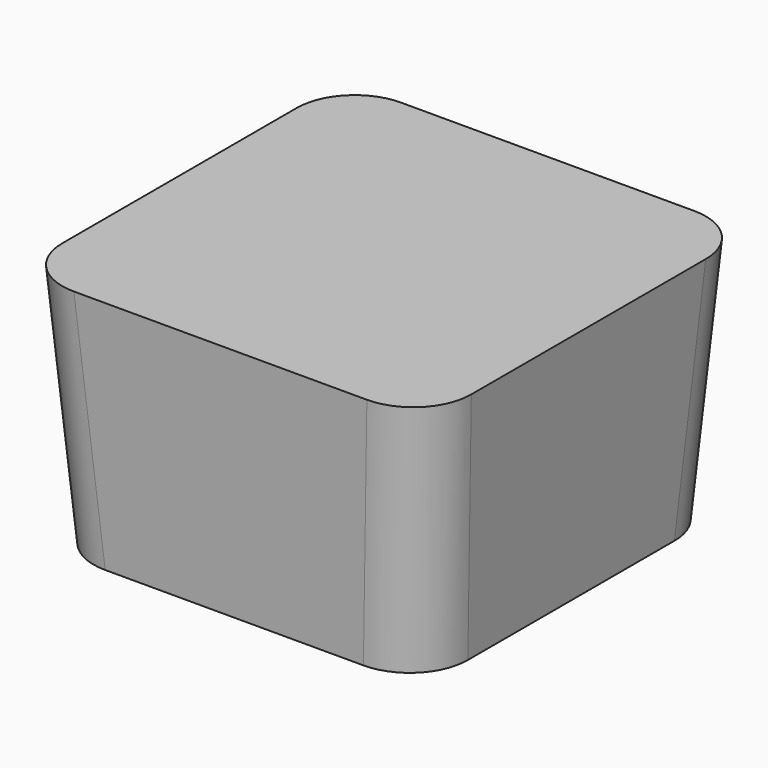
from build123d import *


with BuildPart() as f3:
    # F0 (on Top) → F3 section 0
    with BuildSketch(Plane.XY):
        with BuildLine():
            Line((-44.5, -64.5), (44.5, -64.5))
            ThreePointArc((44.5, -64.5), (58.6421356237, -58.6421356237), (64.5, -44.5))
            Line((64.5, -44.5), (64.5, 44.5))
            ThreePointArc((64.5, 44.5), (58.6421356237, 58.6421356237), (44.5, 64.5))
            Line((44.5, 64.5), (-44.5, 64.5))
            ThreePointArc((-44.5, 64.5), (-58.6421356237, 58.6421356237), (-64.5, 44.5))
            Line((-64.5, 44.5), (-64.5, -44.5))
            ThreePointArc((-64.5, -44.5), (-58.6421356237, -58.6421356237), (-44.5, -64.5))
        make_face()
    # F2 (on offset) → F3 section 1
    with BuildSketch(Plane.XY.offset(85)):
        with BuildLine():
            ThreePointArc((70.5, 50.5), (64.6421356237, 64.6421356237), (50.5, 70.5))
            Line((50.5, 70.5), (-50.5, 70.5))
            ThreePointArc((-50.5, 70.5), (-64.6421356237, 64.6421356237), (-70.5, 50.5))
            Line((-70.5, 50.5), (-70.5, -50.5))
            ThreePointArc((-70.5, -50.5), (-64.6421356237, -64.6421356237), (-50.5, -70.5))
            Line((-50.5, -70.5), (50.5, -70.5))
            ThreePointArc((50.5, -70.5), (64.6421356237, -64.6421356237), (70.5, -50.5))
            Line((70.5, -50.5), (70.5, 50.5))
        make_face()
    loft()


solid = f3.part
